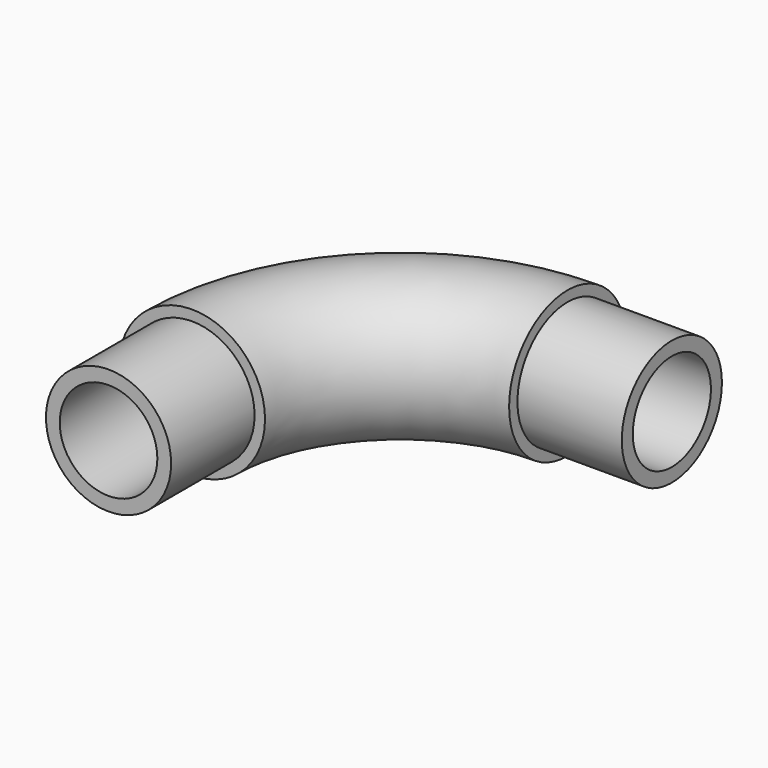
from build123d import *

# Parameters (mm, degrees)
F0_R     = 8.89
F0_R_2   = 5.9436
F3_R     = 8.89
F3_R_2   = 7.62
F4_DEPTH = 12.7
F5_R     = 8.89
F5_R_2   = 7.62
F6_DEPTH = 12.7


with BuildPart() as f2:
    # F2: sweep along a path in F1
    with BuildLine(Plane.XY) as f2_path:
        Line((0, 0), (0, 12.7))
        ThreePointArc((0, 12.7), (7.4394877579, 30.6605122421), (25.4, 38.1))
        Line((25.4, 38.1), (38.1, 38.1))
    # F0 (on Front) → F2 (sweep)
    with BuildSketch(Plane.XZ):
        Circle(F0_R)
        Circle(F0_R_2, mode=Mode.SUBTRACT)
    sweep(path=f2_path.line)

    # F3 (on face) → F4 (cut)
    with BuildSketch(Plane.XZ):
        Circle(F3_R)
        Circle(F3_R_2, mode=Mode.SUBTRACT)
    extrude(amount=-F4_DEPTH, mode=Mode.SUBTRACT)

    # F5 (on face) → F6 (cut)
    with BuildSketch(Plane.YZ.offset(38.1)):
        with Locations((38.1, 0)):
            Circle(F5_R)
        with Locations((38.1, 0)):
            Circle(F5_R_2, mode=Mode.SUBTRACT)
    extrude(amount=-F6_DEPTH, mode=Mode.SUBTRACT)


solid = f2.part
